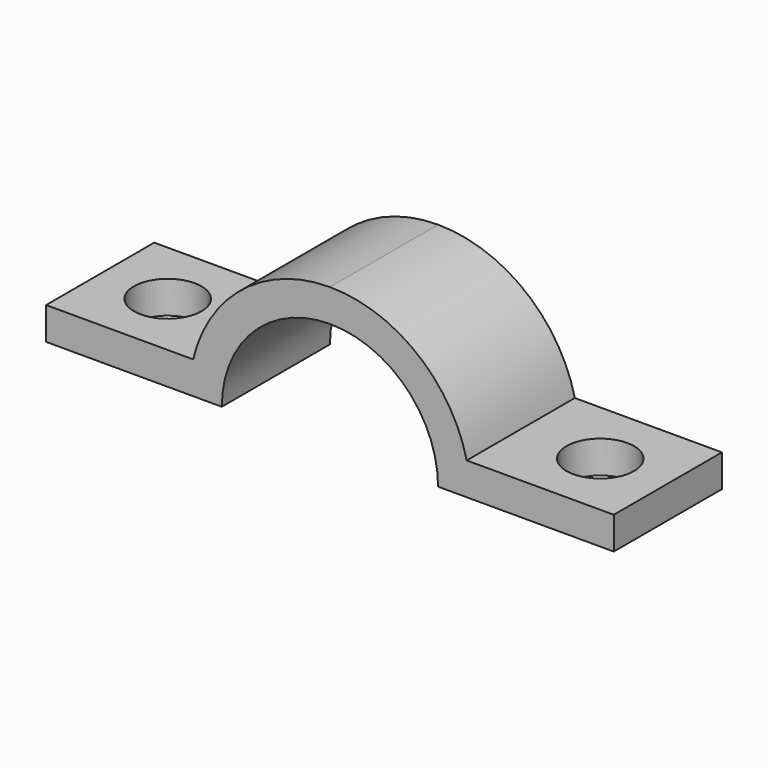
from build123d import *

# Parameters (mm, degrees)
F1_DEPTH = 6.35
F2_R     = 1.5875
F3_DEPTH = 1.525


with BuildPart() as f1:
    # F0 (on Front) → F1 (new body)
    with BuildSketch(Plane.XZ):
        with BuildLine():
            Line((-13.335, 0), (-6.604, 0))
            ThreePointArc((-6.604, 0), (-6.559286, 0.767195), (-6.425748, 1.524))
            Line((-6.425748, 1.524), (-9.251668, 1.524))
            Line((-9.251668, 1.524), (-13.335, 1.524))
            Line((-13.335, 1.524), (-13.335, 0))
        make_face()
        with BuildLine():
            Line((-6.604, 0), (-5.08, 0))
            ThreePointArc((-5.08, 0), (-3.592102, 3.592102), (0, 5.08))
            ThreePointArc((0, 5.08), (3.592102, 3.592102), (5.08, 0))
            Line((5.08, 0), (6.604, 0))
            ThreePointArc((6.604, 0), (6.559286, 0.767195), (6.425748, 1.524))
            ThreePointArc((6.425748, 1.524), (4.095627, 5.180604), (0, 6.604))
            ThreePointArc((0, 6.604), (-4.095627, 5.180604), (-6.425748, 1.524))
            ThreePointArc((-6.425748, 1.524), (-6.559286, 0.767195), (-6.604, 0))
        make_face()
        with BuildLine():
            ThreePointArc((6.425748, 1.524), (6.559286, 0.767195), (6.604, 0))
            Line((6.604, 0), (13.335, 0))
            Line((13.335, 0), (13.335, 1.524))
            Line((13.335, 1.524), (9.251668, 1.524))
            Line((9.251668, 1.524), (6.425748, 1.524))
        make_face()
    extrude(amount=F1_DEPTH)

    # F2 (on face) → F3 (cut, through all)
    with BuildSketch(Plane.XY.offset(1.524)):
        with Locations((10.16, -3.175)):
            Circle(F2_R)
        with Locations((-10.16, -3.175)):
            Circle(F2_R)
    extrude(amount=-F3_DEPTH, mode=Mode.SUBTRACT)


solid = f1.part
